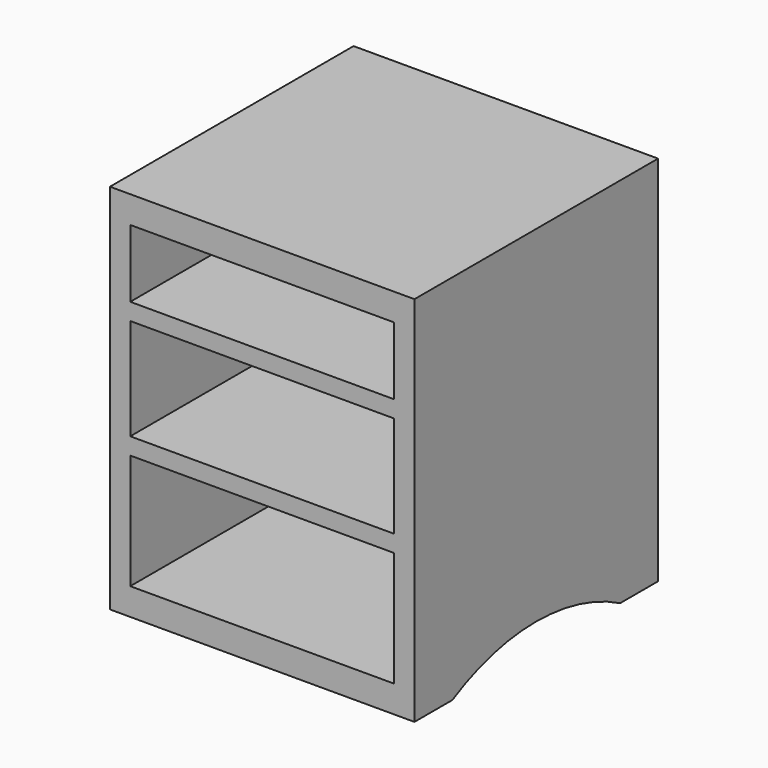
from build123d import *

# Parameters (mm, degrees)
F1_DEPTH = 450
F2_W     = 390
F2_H     = 470
F3_DEPTH = 400
F4_W     = 400
F4_H     = 25
F5_DEPTH = 390
F6_W     = 400
F6_H     = 25
F7_DEPTH = 390


with BuildPart() as f1:
    # F0 (on Right) → F1 (new body)
    with BuildSketch(Plane.YZ):
        with BuildLine():
            Line((266.10621, -0.179865), (266.10621, 549.820135))
            Line((266.10621, 549.820135), (-183.89379, 549.820135))
            Line((-183.89379, 549.820135), (-183.89379, -0.179865))
            Line((-183.89379, -0.179865), (-113.89379, -0.179865))
            ThreePointArc((-113.89379, -0.179865), (41.10621, 39.031723), (196.10621, -0.179865))
            Line((196.10621, -0.179865), (266.10621, -0.179865))
        make_face()
    extrude(amount=F1_DEPTH)

    # F2 (on face) → F3 (cut)
    with BuildSketch(Plane.XZ.offset(183.89379)):
        with Locations((225, 274.820135)):
            Rectangle(F2_W, F2_H)
    extrude(amount=-F3_DEPTH, mode=Mode.SUBTRACT)

    # F4 (on face) → F5 (join)
    with BuildSketch(Plane(origin=(420, 0, 0), x_dir=(0, -1, 0), z_dir=(-1, 0, 0))):
        with Locations((-16.10621, 397.320135)):
            Rectangle(F4_W, F4_H)
    extrude(amount=F5_DEPTH)

    # F6 (on face) → F7 (join)
    with BuildSketch(Plane(origin=(420, 0, 0), x_dir=(0, -1, 0), z_dir=(-1, 0, 0))):
        with Locations((-16.10621, 222.320135)):
            Rectangle(F6_W, F6_H)
    extrude(amount=F7_DEPTH)


solid = f1.part
